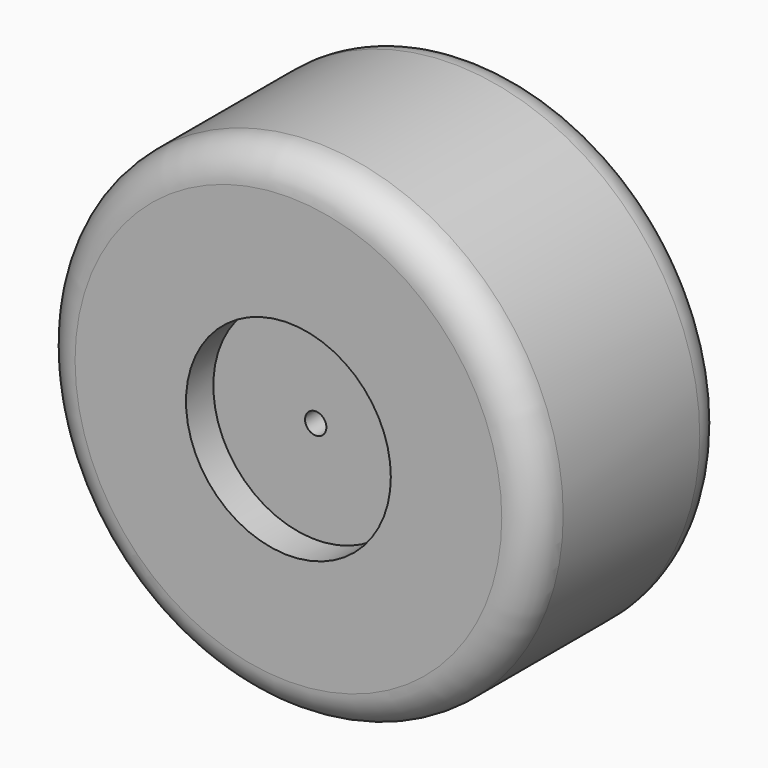
from build123d import *

# Parameters (mm, degrees)
F0_R      = 184.15
F1_DEPTH  = 88.9
F2_R      = 76.2
F3_DEPTH  = 25.4
F4_R      = 76.2
F5_DEPTH  = 25.4
F6_R      = 12.7
F7_DEPTH  = 177.8
F8_R      = 25.4
F9_R      = 12.7
F9_R_2    = 7.9375
F10_DEPTH = 127


with BuildPart() as f1:
    # F0 (on Front) → F1 (new body, symmetric)
    with BuildSketch(Plane.XZ):
        Circle(F0_R)
    extrude(amount=F1_DEPTH, both=True)

    # F2 (on face) → F3 (cut)
    with BuildSketch(Plane.XZ.offset(88.9)):
        Circle(F2_R)
    extrude(amount=-F3_DEPTH, mode=Mode.SUBTRACT)

    # F4 (on face) → F5 (cut)
    with BuildSketch(Plane(origin=(0, 88.9, 0), x_dir=(-1, 0, 0), z_dir=(0, 1, 0))):
        Circle(F4_R)
    extrude(amount=-F5_DEPTH, mode=Mode.SUBTRACT)

    # F6 (on face) → F7 (cut, symmetric)
    with BuildSketch(Plane.XZ.offset(88.9)):
        Circle(F6_R)
    extrude(amount=F7_DEPTH, both=True, mode=Mode.SUBTRACT)

    # F8
    f8_edges = [f1.edges().sort_by_distance(p)[0] for p in [
        (-184.15, 88.9, 0),
        (-184.15, -88.9, 0),
    ]]
    fillet(f8_edges, radius=F8_R)

    # F9 (on face) → F10 (join)
    with BuildSketch(Plane.XZ.offset(63.5)):
        Circle(F9_R)
        Circle(F9_R_2, mode=Mode.SUBTRACT)
    extrude(amount=-F10_DEPTH)


solid = f1.part
